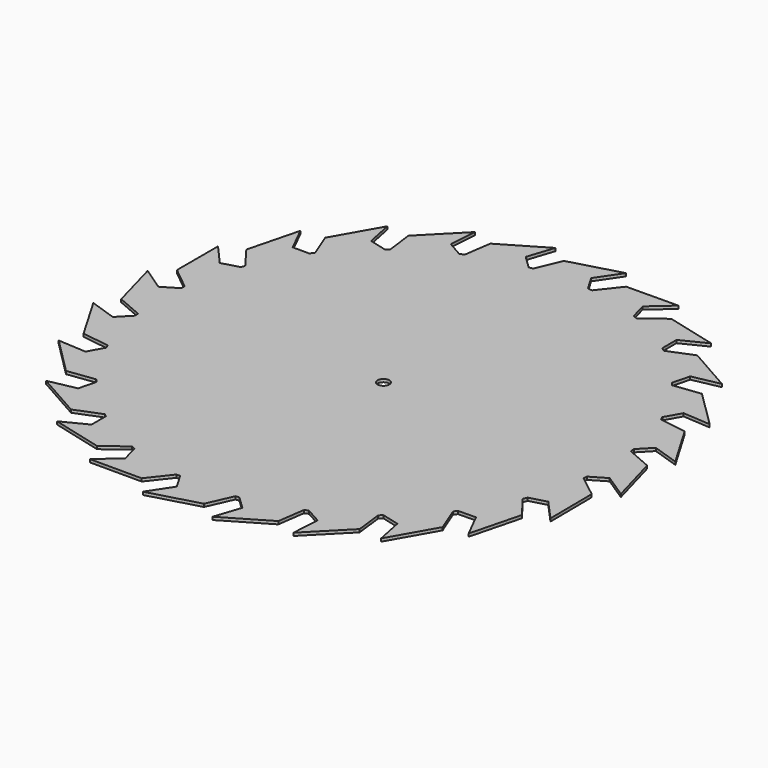
from build123d import *

# Parameters (mm, degrees)
F0_R     = 2
F1_DEPTH = 1


with BuildPart() as f1:
    # F0 (on Top) → F1 (new body)
    with BuildSketch(Plane.XY):
        Polygon((-170.931182, 94.929279), (-178.935592, 100.393385), (-174.19368, 83.114073), (-165.403008, 79.330623), (-165.294349, 77.884942), (-169.487819, 73.585391), (-178.64053, 76.696806), (-169.576123, 61.166067), (-160.313651, 59.888694), (-159.703866, 58.582332), (-162.630156, 53.304747), (-172.268271, 53.874396), (-159.703866, 41.302852), (-150.326058, 42.545263), (-149.290547, 41.406386), (-150.843814, 35.401404), (-160.297245, 33.490323), (-144.676849, 24.660785), (-135.845885, 28.173612), (-134.896323, 27.366612), (-134.896323, 21.229759), (-143.300653, 16.94699), (-126.037876, 12.481747), (-118.515134, 18.081743), (-117.21383, 17.592588), (-115.578801, 11.634614), (-122.706801, 5.295417), (-104.921646, 5.295417), (-98.986857, 12.843247), (-97.754188, 12.843247), (-94.544627, 7.404838), (-99.824868, -0.601654), (-82.638197, 4.195278), (-78.807436, 12.843247), (-77.541642, 13.009544), (-73.138356, 8.775612), (-76.111726, -0.265788), (-60.774289, 8.775612), (-59.456516, 18.109852), (-58.175348, 18.658925), (-52.757829, 15.657326), (-53.416714, 6.030248), (-40.861767, 18.76732), (-41.971847, 28.13928), (-40.861767, 29.065885), (-34.913585, 27.52826), (-32.994203, 18.100707), (-24.199748, 33.567108), (-27.712576, 42.396642), (-26.905576, 43.499492), (-20.779634, 43.600194), (-16.44348, 35.033159), (-11.998242, 52.313395), (-17.667146, 59.771266), (-17.104328, 61.170273), (-11.314055, 62.781483), (-4.805986, 55.59827), (-4.969601, 73.500365), (-12.407549, 79.304725), (-12.317293, 80.623472), (-7.000638, 83.757633), (1.064408, 78.466788), (-3.74119, 95.745668), (-12.317293, 99.474117), (-12.467637, 100.935459), (-8.347162, 105.220751), (0.74094, 102.232022), (-8.272784, 117.522509), (-17.522758, 118.920013), (-18.108435, 120.23779), (-15.069733, 125.581815), (-5.598881, 124.933623), (-18.290413, 137.443681), (-27.662303, 136.307329), (-28.557425, 137.438729), (-27.033923, 143.36113), (-17.676375, 145.266259), (-33.176269, 154.079758), (-41.853711, 150.553182), (-43.134663, 151.459798), (-43.134663, 157.608002), (-34.616161, 161.854208), (-51.867886, 166.292111), (-59.378833, 160.689354), (-60.774289, 161.31033), (-62.388756, 167.115263), (-55.173125, 173.475817), (-72.983663, 173.313039), (-78.776218, 165.940508), (-80.316429, 166.045921), (-83.425997, 171.320856), (-77.970915, 179.398346), (-95.370838, 174.559084), (-98.986857, 165.907577), (-100.430792, 165.759024), (-104.825104, 169.984327), (-101.852417, 179.02365), (-117.040908, 170.070053), (-118.387379, 160.870731), (-119.778854, 160.177124), (-125.139098, 163.225048), (-124.489884, 172.71082), (-137.053189, 159.965269), (-135.889679, 150.703996), (-137.053189, 149.78347), (-142.977322, 151.307418), (-144.888788, 160.696093), (-153.754356, 145.104628), (-150.389701, 136.644378), (-151.345882, 135.293397), (-157.080024, 135.293397), (-161.457264, 144.074773), (-165.973303, 126.519309), (-160.271138, 118.921481), (-160.782874, 117.619239), (-166.658001, 115.98525), (-173.070462, 123.259766), (-173.070462, 105.623409), (-165.534943, 99.514894), (-165.635112, 98.051306), align=None)
        with Locations((-89.083396, 89.265883)):
            Circle(F0_R, mode=Mode.SUBTRACT)
    extrude(amount=F1_DEPTH)


solid = f1.part
